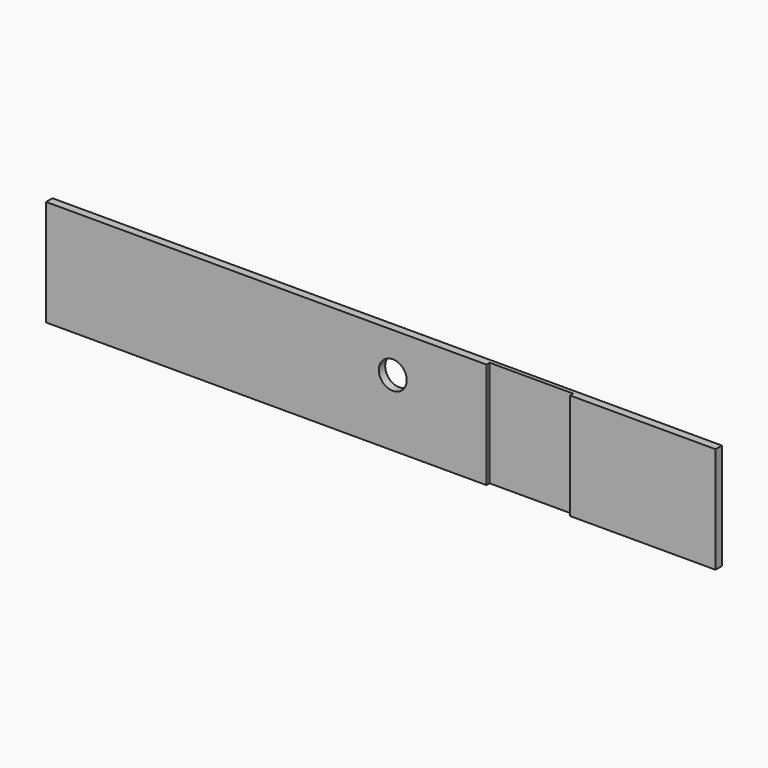
from build123d import *

# Parameters (mm, degrees)
SKETCH157_R      = 3.5
EXTRUDE147_DEPTH = 10
EXTRUDE097_DEPTH = 26.64


with BuildPart() as extrude147:
    # Sketch157 → Extrude147 (new body)
    with BuildSketch(Plane(origin=(0, 280, 0), x_dir=(-1, 0, 0), z_dir=(0, 1, 0))):
        with Locations((-134, -3.64)):
            Circle(SKETCH157_R)
    extrude(amount=-EXTRUDE147_DEPTH)


with BuildPart() as battery_side:
    # Sketch106 → Extrude097 (new body)
    with BuildSketch(Plane(origin=(0, 0, -20.32), x_dir=(1, 0, 0), z_dir=(0, 0, -1))):
        Polygon((47, -278.5), (215, -278.5), (215, -276.5), (178.5, -276.5), (178.5, -277.5), (157.5, -277.5), (157.5, -276.5), (47, -276.5), align=None)
    extrude(amount=-EXTRUDE097_DEPTH)

    # Cut017: cut Extrude147
    add(extrude147.part, mode=Mode.SUBTRACT)


solid = battery_side.part
